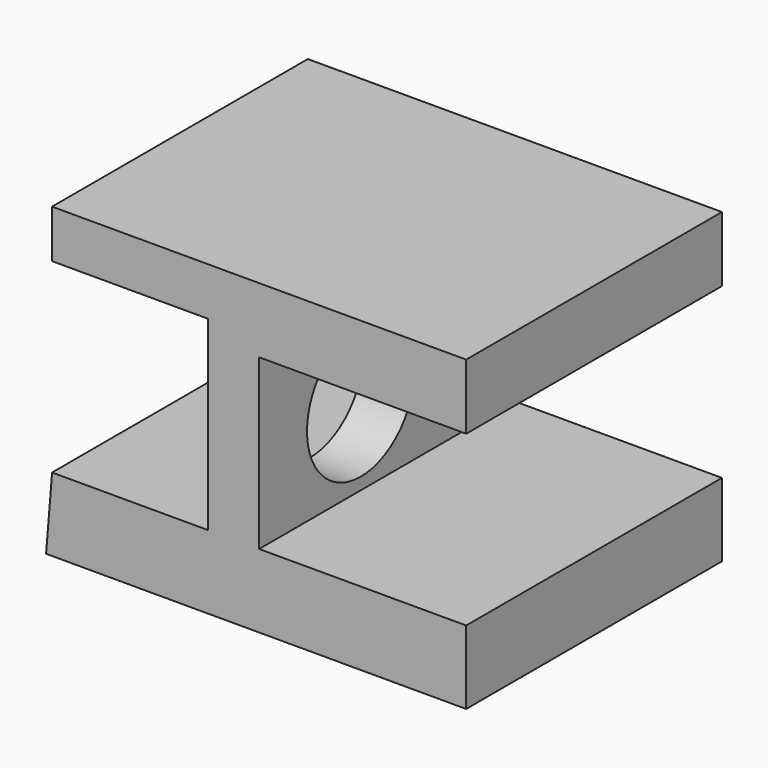
from build123d import *

# Parameters (mm, degrees)
F1_DEPTH = 76.2
F2_R     = 16.022792
F3_DEPTH = 76.2


with BuildPart() as f1:
    # F0 (on Front) → F1 (new body)
    with BuildSketch(Plane.XZ):
        Polygon((-43.420587, -22.448728), (-44.851206, -39.973821), (55.292182, -39.973821), (55.292182, -22.448728), (5.935797, -22.448728), (5.935797, 17.787455), (55.292182, 17.787455), (55.292182, 33.34545), (-35.015699, 33.34545), (-43.420587, 33.34545), (-43.420587, 21.900488), (-6.224472, 21.900488), (-6.224472, -22.448728), align=None)
    extrude(amount=F1_DEPTH)

    # F2 (on face) → F3 (cut)
    with BuildSketch(Plane.YZ.offset(5.935797)):
        with Locations((-45.915954, -3.561358)):
            Circle(F2_R)
    extrude(amount=-F3_DEPTH, mode=Mode.SUBTRACT)


solid = f1.part
